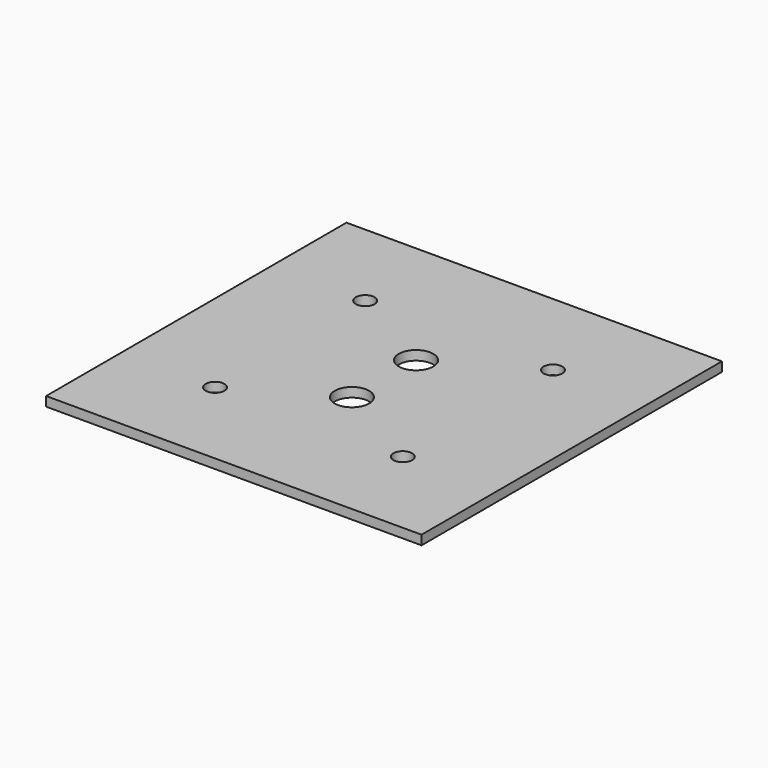
from build123d import *

# Parameters (mm, degrees)
F0_W     = 120
F0_H     = 120
F1_DEPTH = 3
F2_R     = 5.5
F3_DEPTH = 3.001
F5_D     = 6


with BuildPart() as f1:
    # F0 (on Top) → F1 (new body)
    with BuildSketch(Plane.XY):
        Rectangle(F0_W, F0_H)
    extrude(amount=F1_DEPTH)

    # F2 (on face) → F3 (cut, through all)
    with BuildSketch(Plane.XY.offset(3)):
        with Locations((0, 12.8)):
            Circle(F2_R)
        with Locations((0, -12.8)):
            Circle(F2_R)
    extrude(amount=-F3_DEPTH, mode=Mode.SUBTRACT)

    # F5 (through all)
    with Locations(Plane.XY.offset(3)):
        with Locations((-30, -30), (-30, 30), (30, 30), (30, -30)):
            Hole(F5_D / 2)


solid = f1.part
